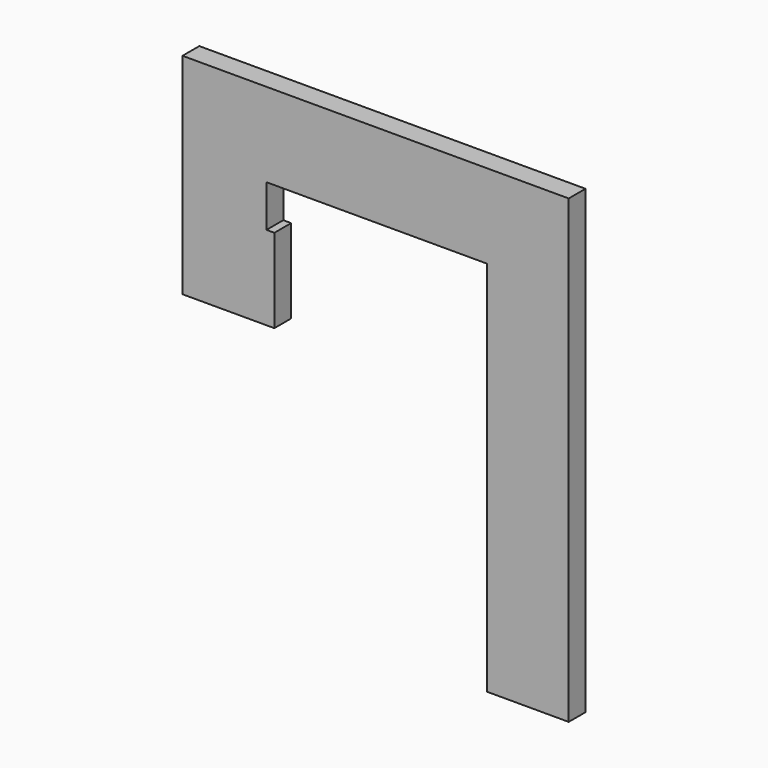
from build123d import *

# Parameters (mm, degrees)
F0_W     = 0.75
F0_H     = 8
F1_DEPTH = 2


with BuildPart() as f1:
    # F0 (on Front) → F1 (new body)
    with BuildSketch(Plane.XZ):
        Polygon((22.636973, 19.394943), (43.636973, 19.394943), (43.636973, 27.394943), (14.636973, 27.394943), (14.636973, 7.394943), (22.636973, 7.394943), (22.636973, 15.394943), align=None)
        with Locations((23.011973, 11.394943)):
            Rectangle(F0_W, F0_H)
        Polygon((43.636973, 27.394943), (43.636973, 19.394943), (43.636973, -16.505208), (51.427811, -16.505208), (51.427811, 27.394943), align=None)
    extrude(amount=F1_DEPTH)


solid = f1.part
